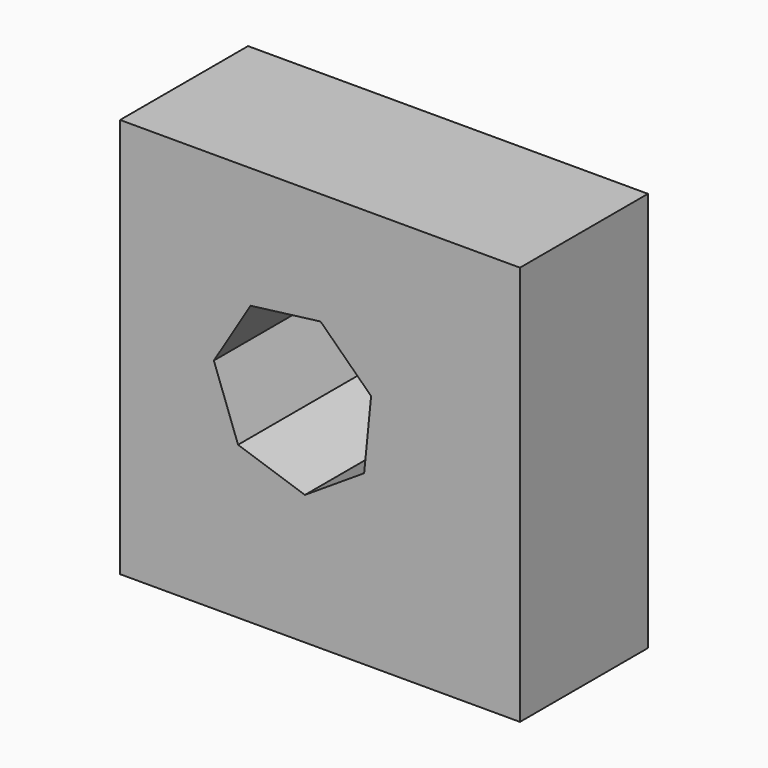
from build123d import *

# Parameters (mm, degrees)
F0_W     = 50
F0_H     = 50
F1_DEPTH = 20
F3_DEPTH = 44.2


with BuildPart() as f1:
    # F0 (on Front) → F1 (new body)
    with BuildSketch(Plane.XZ):
        with Locations((25, 25)):
            Rectangle(F0_W, F0_H)
    extrude(amount=F1_DEPTH)

    # F2 (on face) → F3 (cut)
    with BuildSketch(Plane.XZ.offset(20)):
        Polygon((25.067436, 35.966345), (16.31749, 34.860283), (11.726743, 27.329682), (14.75212, 19.045238), (23.115451, 16.245306), (30.518977, 21.038293), (31.387692, 29.814981), align=None)
    extrude(amount=-F3_DEPTH, mode=Mode.SUBTRACT)


solid = f1.part
